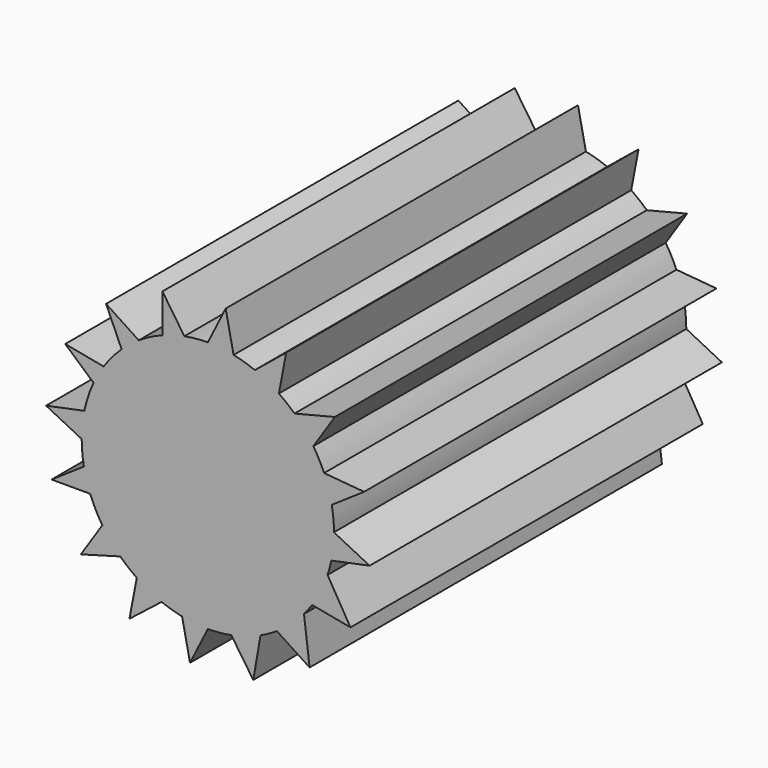
from build123d import *

# Parameters (mm, degrees)
F1_DEPTH = 12.7


with BuildPart() as f1:
    # F0 (on Front) → F1 (new body)
    with BuildSketch(Plane.XZ):
        with BuildLine():
            ThreePointArc((3.5606706706, -0.7425834457), (3.6180769765, -0.3732623619), (3.63728, 0))
            ThreePointArc((3.63728, 0), (3.6213765163, 0.3397615722), (3.5738051364, 0.6765520271))
            ThreePointArc((3.5738051364, 0.6765520271), (3.4825423587, 1.0496211309), (3.3524499928, 1.4109871879))
            ThreePointArc((3.3524499928, 1.4109871879), (3.2108553593, 1.7088632654), (3.0428601668, 1.9926885867))
            ThreePointArc((3.0428601668, 1.9926885867), (2.7896517807, 2.3340198673), (2.498357335, 2.6434856582))
            ThreePointArc((2.498357335, 2.6434856582), (2.2807047164, 2.8334063942), (2.0486673204, 3.0054563728))
            ThreePointArc((2.0486673204, 3.0054563728), (1.7124143827, 3.2089628823), (1.3561660359, 3.3749991824))
            ThreePointArc((1.3561660359, 3.3749991824), (1.0534732185, 3.4813790337), (0.7425834457, 3.5606706706))
            Line((0.7425834457, 3.5606706706), (0, 3.63728))
            ThreePointArc((0, 3.63728), (-0.3397615722, 3.6213765163), (-0.6765520271, 3.5738051364))
            ThreePointArc((-0.6765520271, 3.5738051364), (-0.7247312416, 3.5643471248), (-0.7727783981, 3.5542396298))
            ThreePointArc((-0.7727783981, 3.5542396298), (-1.0444322734, 3.4841020399), (-1.3098719531, 3.3932346316))
            ThreePointArc((-1.3098719531, 3.3932346316), (-1.6605472279, 3.2361070289), (-1.9926885867, 3.0428601668))
            ThreePointArc((-1.9926885867, 3.0428601668), (-2.2476575865, 2.8596924961), (-2.4858819563, 2.6552206496))
            ThreePointArc((-2.4858819563, 2.6552206496), (-2.7623678061, 2.3662480643), (-3.0054563728, 2.0486673204))
            ThreePointArc((-3.0054563728, 2.0486673204), (-3.1608520437, 1.7996722357), (-3.2956657104, 1.5389585191))
            ThreePointArc((-3.2956657104, 1.5389585191), (-3.451215794, 1.1484403953), (-3.5606706706, 0.7425834457))
            ThreePointArc((-3.5606706706, 0.7425834457), (-3.6180769765, 0.3732623619), (-3.63728, 0))
            ThreePointArc((-3.63728, 0), (-3.6213765163, -0.3397615722), (-3.5738051364, -0.6765520271))
            ThreePointArc((-3.5738051364, -0.6765520271), (-3.4978828331, -0.9973071162), (-3.3932346316, -1.3098719531))
            ThreePointArc((-3.3932346316, -1.3098719531), (-3.2361070289, -1.6605472279), (-3.0428601668, -1.9926885867))
            ThreePointArc((-3.0428601668, -1.9926885867), (-2.8015066019, -2.3197772647), (-2.5251625854, -2.6178922277))
            ThreePointArc((-2.5251625854, -2.6178922277), (-2.2951103445, -2.8217502202), (-2.0486673204, -3.0054563728))
            ThreePointArc((-2.0486673204, -3.0054563728), (-1.7010031558, -3.2150262927), (-1.332151365, -3.3845499759))
            ThreePointArc((-1.332151365, -3.3845499759), (-1.0410983424, -3.4850997174), (-0.7425834457, -3.5606706706))
            ThreePointArc((-0.7425834457, -3.5606706706), (-0.3732623619, -3.6180769765), (0, -3.63728))
            ThreePointArc((0, -3.63728), (0.3397615722, -3.6213765163), (0.6765520271, -3.5738051364))
            ThreePointArc((0.6765520271, -3.5738051364), (1.1064219136, -3.4649150563), (1.5198461677, -3.3045231767))
            ThreePointArc((1.5198461677, -3.3045231767), (1.7611337209, -3.1824854777), (1.9926885867, -3.0428601668))
            ThreePointArc((1.9926885867, -3.0428601668), (2.4072483422, -2.7267125293), (2.7723506783, -2.3545440142))
            ThreePointArc((2.7723506783, -2.3545440142), (2.8929489657, -2.2046886584), (3.0054563728, -2.0486673204))
            ThreePointArc((3.0054563728, -2.0486673204), (3.2607503405, -1.6116181357), (3.4529018963, -1.1433609635))
            ThreePointArc((3.4529018963, -1.1433609635), (3.5125070381, -0.9445105112), (3.5606706706, -0.7425834457))
        make_face()
        with BuildLine():
            Line((4.6645724086, -0.514333969), (3.63728, 0))
            ThreePointArc((3.63728, 0), (3.6180769765, -0.3732623619), (3.5606706706, -0.7425834457))
            Line((3.5606706706, -0.7425834457), (4.6645724086, -0.514333969))
        make_face()
        with BuildLine():
            ThreePointArc((3.3524499928, 1.4109871879), (3.4825423587, 1.0496211309), (3.5738051364, 0.6765520271))
            Line((3.5738051364, 0.6765520271), (4.5063300649, 1.3098719531))
            Line((4.5063300649, 1.3098719531), (3.3524499928, 1.4109871879))
        make_face()
        with BuildLine():
            Line((4.1126758876, -2.2602372067), (3.4529018963, -1.1433609635))
            ThreePointArc((3.4529018963, -1.1433609635), (3.2607503405, -1.6116181357), (3.0054563728, -2.0486673204))
            Line((3.0054563728, -2.0486673204), (4.1126758876, -2.2602372067))
        make_face()
        with BuildLine():
            ThreePointArc((2.498357335, 2.6434856582), (2.7896517807, 2.3340198673), (3.0428601668, 1.9926885867))
            Line((3.0428601668, 1.9926885867), (3.6620398187, 2.9346617442))
            Line((3.6620398187, 2.9346617442), (2.498357335, 2.6434856582))
        make_face()
        with BuildLine():
            Line((2.9346617442, -3.6620398187), (2.7723506783, -2.3545440142))
            ThreePointArc((2.7723506783, -2.3545440142), (2.4072483422, -2.7267125293), (1.9926885867, -3.0428601668))
            Line((1.9926885867, -3.0428601668), (2.9346617442, -3.6620398187))
        make_face()
        with BuildLine():
            ThreePointArc((1.3561660359, 3.3749991824), (1.7124143827, 3.2089628823), (2.0486673204, 3.0054563728))
            Line((2.0486673204, 3.0054563728), (2.2602372067, 4.1126758876))
            Line((2.2602372067, 4.1126758876), (1.3561660359, 3.3749991824))
        make_face()
        with BuildLine():
            Line((1.3098719531, -4.5063300649), (1.5198461677, -3.3045231767))
            ThreePointArc((1.5198461677, -3.3045231767), (1.1064219136, -3.4649150563), (0.6765520271, -3.5738051364))
            Line((0.6765520271, -3.5738051364), (1.3098719531, -4.5063300649))
        make_face()
        with BuildLine():
            Line((0, 3.63728), (0.7425834457, 3.5606706706))
            ThreePointArc((0.7425834457, 3.5606706706), (0.3732623619, 3.6180769765), (0, 3.63728))
        make_face()
        with BuildLine():
            ThreePointArc((0, 3.63728), (0.3732623619, 3.6180769765), (0.7425834457, 3.5606706706))
            Line((0.7425834457, 3.5606706706), (0.514333969, 4.6645724086))
            Line((0.514333969, 4.6645724086), (0, 3.63728))
        make_face()
        with BuildLine():
            Line((-0.514333969, -4.6645724086), (0, -3.63728))
            ThreePointArc((0, -3.63728), (-0.3732623619, -3.6180769765), (-0.7425834457, -3.5606706706))
            Line((-0.7425834457, -3.5606706706), (-0.514333969, -4.6645724086))
        make_face()
        with BuildLine():
            ThreePointArc((-0.7727783981, 3.5542396298), (-0.7247312416, 3.5643471248), (-0.6765520271, 3.5738051364))
            Line((-0.6765520271, 3.5738051364), (-1.3098719531, 4.5063300649))
            Line((-1.3098719531, 4.5063300649), (-1.3098719531, 3.8332852884))
            Line((-1.3098719531, 3.8332852884), (-0.7727783981, 3.5542396298))
        make_face()
        with BuildLine():
            ThreePointArc((-1.3098719531, 3.3932346316), (-1.0444322734, 3.4841020399), (-0.7727783981, 3.5542396298))
            Line((-0.7727783981, 3.5542396298), (-1.3098719531, 3.8332852884))
            Line((-1.3098719531, 3.8332852884), (-1.3098719531, 3.3932346316))
        make_face()
        with BuildLine():
            Line((-2.2602372067, -4.1126758876), (-1.332151365, -3.3845499759))
            ThreePointArc((-1.332151365, -3.3845499759), (-1.7010031558, -3.2150262927), (-2.0486673204, -3.0054563728))
            Line((-2.0486673204, -3.0054563728), (-2.2602372067, -4.1126758876))
        make_face()
        with BuildLine():
            ThreePointArc((-2.4858819563, 2.6552206496), (-2.2476575865, 2.8596924961), (-1.9926885867, 3.0428601668))
            Line((-1.9926885867, 3.0428601668), (-2.9346617442, 3.6620398187))
            Line((-2.9346617442, 3.6620398187), (-2.4858819563, 2.6552206496))
        make_face()
        with BuildLine():
            Line((-3.6620398187, -2.9346617442), (-2.5251625854, -2.6178922277))
            ThreePointArc((-2.5251625854, -2.6178922277), (-2.8015066019, -2.3197772647), (-3.0428601668, -1.9926885867))
            Line((-3.0428601668, -1.9926885867), (-3.6620398187, -2.9346617442))
        make_face()
        with BuildLine():
            ThreePointArc((-3.2956657104, 1.5389585191), (-3.1608520437, 1.7996722357), (-3.0054563728, 2.0486673204))
            Line((-3.0054563728, 2.0486673204), (-4.1126758876, 2.2602372067))
            Line((-4.1126758876, 2.2602372067), (-3.2956657104, 1.5389585191))
        make_face()
        with BuildLine():
            Line((-4.5063300649, -1.3098719531), (-3.3932346316, -1.3098719531))
            ThreePointArc((-3.3932346316, -1.3098719531), (-3.4978828331, -0.9973071162), (-3.5738051364, -0.6765520271))
            Line((-3.5738051364, -0.6765520271), (-4.5063300649, -1.3098719531))
        make_face()
        with BuildLine():
            ThreePointArc((-3.63728, 0), (-3.6180769765, 0.3732623619), (-3.5606706706, 0.7425834457))
            Line((-3.5606706706, 0.7425834457), (-4.6645724086, 0.514333969))
            Line((-4.6645724086, 0.514333969), (-3.63728, 0))
        make_face()
    extrude(amount=F1_DEPTH)


solid = f1.part
